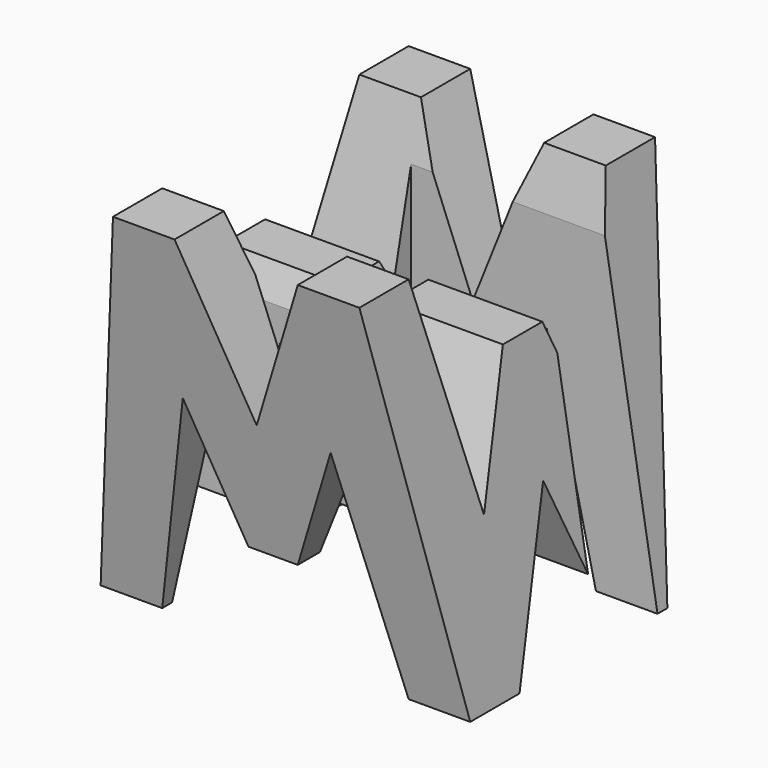
from build123d import *

# Parameters (mm, degrees)
F0_W      = 38.1
F0_H      = 38.1
F1_DEPTH  = 38.1
F6_DEPTH  = 38.1
F8_DEPTH  = 38.1
F9_W      = 25.4
F9_H      = 7.62
F10_DEPTH = 38.1


with BuildPart() as f1:
    # F0 (on Front) → F1 (new body)
    with BuildSketch(Plane.XZ):
        with Locations((19.05, 19.05)):
            Rectangle(F0_W, F0_H)
    extrude(amount=F1_DEPTH)

    # F5 (on offset) → F6 (cut)
    with BuildSketch(Plane.YZ.offset(38.1)):
        Polygon((-21.59, 38.1), (-31.75, 38.1), (-26.67, 15.875), (-21.59, 28.575), (-16.51, 28.575), (-11.43, 15.875), (-6.35, 38.1), (-16.51, 38.1), align=None)
        Polygon((-31.75, 0), (-38.1, 38.1), (-38.1, 0), align=None)
        Polygon((-19.05, 15.875), (-25.4, 0), (-12.7, 0), align=None)
        Polygon((0, 38.1), (-6.35, 0), (0, 0), align=None)
    extrude(amount=-F6_DEPTH, mode=Mode.SUBTRACT)

    # F7 (on offset) → F8 (cut)
    with BuildSketch(Plane.XZ.offset(38.1)):
        Polygon((6.35, 38.1), (0, 38.1), (0, 0), align=None)
        Polygon((25.4, 38.1), (12.7, 38.1), (19.05, 22.225), align=None)
        Polygon((11.43, 22.225), (6.35, 0), (31.75, 0), (26.67, 22.225), (21.59, 9.525), (16.51, 9.525), align=None)
        Polygon((31.75, 38.1), (38.1, 0), (38.1, 38.1), align=None)
    extrude(amount=-F8_DEPTH, mode=Mode.SUBTRACT)

    # F9 (on offset) → F10 (cut)
    with BuildSketch(Plane.XY.offset(38.1)):
        Polygon((38.1, -15.24), (38.1, -7.62), (12.702552, -7.62), (12.7, -15.24), align=None)
        with Locations((12.7, -26.67)):
            Rectangle(F9_W, F9_H)
    extrude(amount=-F10_DEPTH, mode=Mode.SUBTRACT)


solid = f1.part
